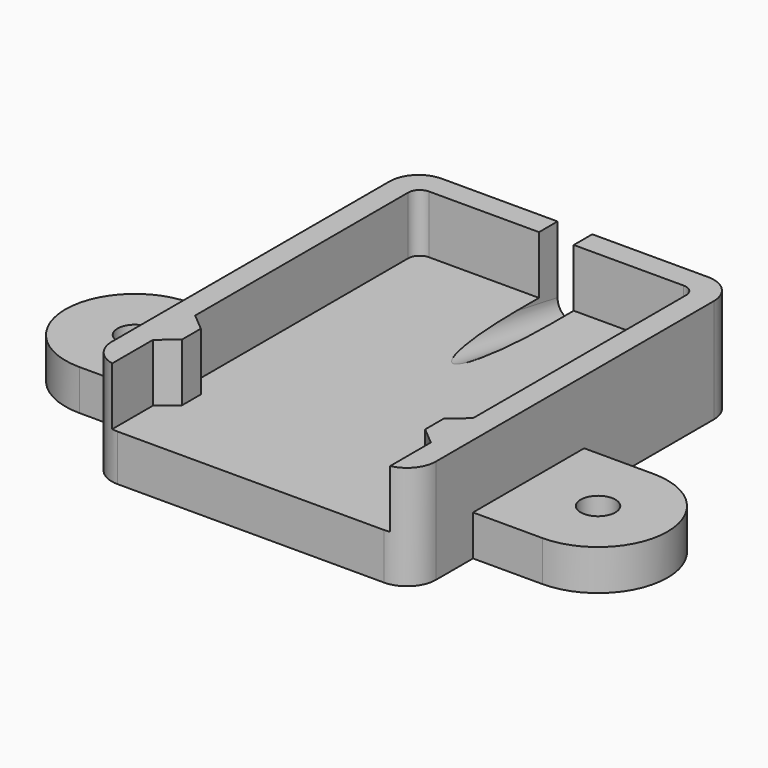
from build123d import *

# Parameters (mm, degrees)
PAD_DEPTH       = 9
POCKET_DEPTH    = 5
POCKET001_DEPTH = 20
SKETCH003_R     = 1.5
PAD001_DEPTH    = 3.5


with BuildPart() as part:
    # Sketch → Pad (new body)
    with BuildSketch(Plane.XY):
        with BuildLine():
            Line((-11.5, 17.5), (11.5, 17.5))
            ThreePointArc((14, 15), (13.267767, 16.767767), (11.5, 17.5))
            Line((14, 15), (14, -15))
            ThreePointArc((11.5, -17.5), (13.267767, -16.767767), (14, -15))
            Line((11.5, -17.5), (-11.5, -17.5))
            ThreePointArc((-14, -15), (-13.267767, -16.767767), (-11.5, -17.5))
            Line((-14, -15), (-14, 15))
            ThreePointArc((-11.5, 17.5), (-13.267767, 16.767767), (-14, 15))
        make_face()
    extrude(amount=PAD_DEPTH)

    # Sketch001 (on Face10 of Pad) → Pocket (cut)
    with BuildSketch(Plane.XY.offset(9)):
        with BuildLine():
            Line((-11, 15.5), (11, 15.5))
            ThreePointArc((12, 14.5), (11.707107, 15.207107), (11, 15.5))
            Line((12, 14.5), (12, -8.5))
            Line((12, -8.5), (10.5, -9.76))
            Line((10.5, -9.76), (10.5, -11.79))
            Line((10.5, -11.79), (12, -13.05))
            Line((12, -13.05), (12, -18.05))
            Line((-12, -18.05), (12, -18.05))
            Line((-12, -13.05), (-12, -18.05))
            Line((-10.5, -11.79), (-12, -13.05))
            Line((-10.5, -9.76), (-10.5, -11.79))
            Line((-12, -8.5), (-10.5, -9.76))
            Line((-12, 14.5), (-12, -8.5))
            ThreePointArc((-11, 15.5), (-11.707107, 15.207107), (-12, 14.5))
        make_face()
    extrude(amount=-POCKET_DEPTH, mode=Mode.SUBTRACT)

    # Sketch002 (on Face9 of Pocket) → Pocket001 (cut)
    with BuildSketch(Plane(origin=(0, 17.5, 0), x_dir=(-1, 0, 0), z_dir=(0, 0.984808, -0.173648))):
        with BuildLine():
            ThreePointArc((-1.5, 3.16327), (0, 1.66327), (1.5, 3.16327))
            Line((1.5, 8.86327), (1.5, 3.16327))
            Line((-1.5, 8.86327), (1.5, 8.86327))
            Line((-1.5, 8.86327), (-1.5, 3.16327))
        make_face()
    extrude(amount=-POCKET001_DEPTH, mode=Mode.SUBTRACT)

    # Sketch003 (on Face4 of Pocket001) → Pad001 (join)
    with BuildSketch(Plane(origin=(0, 0, 0), x_dir=(1, 0, 0), z_dir=(0, 0, -1))):
        with BuildLine():
            ThreePointArc((-20, 11), (-26, 5), (-20, -1))
            Line((-20, -1), (20, -1))
            ThreePointArc((20, -1), (26, 5), (20, 11))
            Line((-20, 11), (20, 11))
        make_face()
        with Locations((-20, 5)):
            Circle(SKETCH003_R, mode=Mode.SUBTRACT)
        with Locations((20, 5)):
            Circle(SKETCH003_R, mode=Mode.SUBTRACT)
    extrude(amount=-PAD001_DEPTH)


solid = part.part
